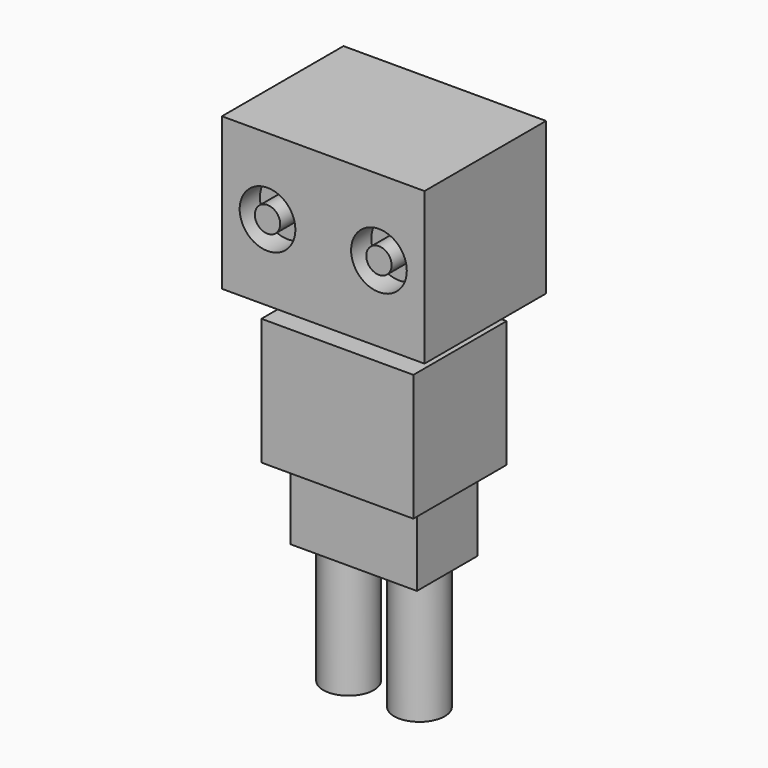
from build123d import *

# Parameters (mm, degrees)
F0_W      = 30
F0_H      = 23
F1_DEPTH  = 25
F2_W      = 25
F2_H      = 15
F3_DEPTH  = 15
F4_R      = 5
F5_DEPTH  = 25
F6_R      = 7.5
F7_DEPTH  = 5
F8_W      = 40
F8_H      = 30
F9_DEPTH  = 30
F10_R     = 5.5
F11_DEPTH = 5
F12_R     = 2.5
F13_DEPTH = 5
F14_R     = 2.5
F15_DEPTH = 5


with BuildPart() as f1:
    # F0 (on Top) → F1 (new body)
    with BuildSketch(Plane.XY):
        Rectangle(F0_W, F0_H)
    extrude(amount=F1_DEPTH)

    # F2 (on face) → F3 (join)
    with BuildSketch(Plane(origin=(0, 0, 0), x_dir=(1, 0, 0), z_dir=(0, 0, -1))):
        Rectangle(F2_W, F2_H)
    extrude(amount=F3_DEPTH)

    # F4 (on face) → F5 (join)
    with BuildSketch(Plane(origin=(0, 0, -15), x_dir=(1, 0, 0), z_dir=(0, 0, -1))):
        with Locations((7, 0)):
            Circle(F4_R)
        with Locations((-7, 0)):
            Circle(F4_R)
    extrude(amount=F5_DEPTH)

    # F6 (on face) → F7 (join)
    with BuildSketch(Plane.XY.offset(25)):
        Circle(F6_R)
    extrude(amount=F7_DEPTH)

    # F8 (on face) → F9 (join)
    with BuildSketch(Plane.XY.offset(30)):
        Rectangle(F8_W, F8_H)
    extrude(amount=F9_DEPTH)

    # F10 (on face) → F11 (cut)
    with BuildSketch(Plane.XZ.offset(15)):
        with Locations((-11, 45)):
            Circle(F10_R)
        with Locations((11, 45)):
            Circle(F10_R)
    extrude(amount=-F11_DEPTH, mode=Mode.SUBTRACT)

    # F12 (on face) → F13 (join)
    with BuildSketch(Plane.XZ.offset(10)):
        with Locations((-11, 45)):
            Circle(F12_R)
    extrude(amount=F13_DEPTH)

    # F14 (on face) → F15 (join)
    with BuildSketch(Plane.XZ.offset(10)):
        with Locations((11, 45)):
            Circle(F14_R)
    extrude(amount=F15_DEPTH)


solid = f1.part
